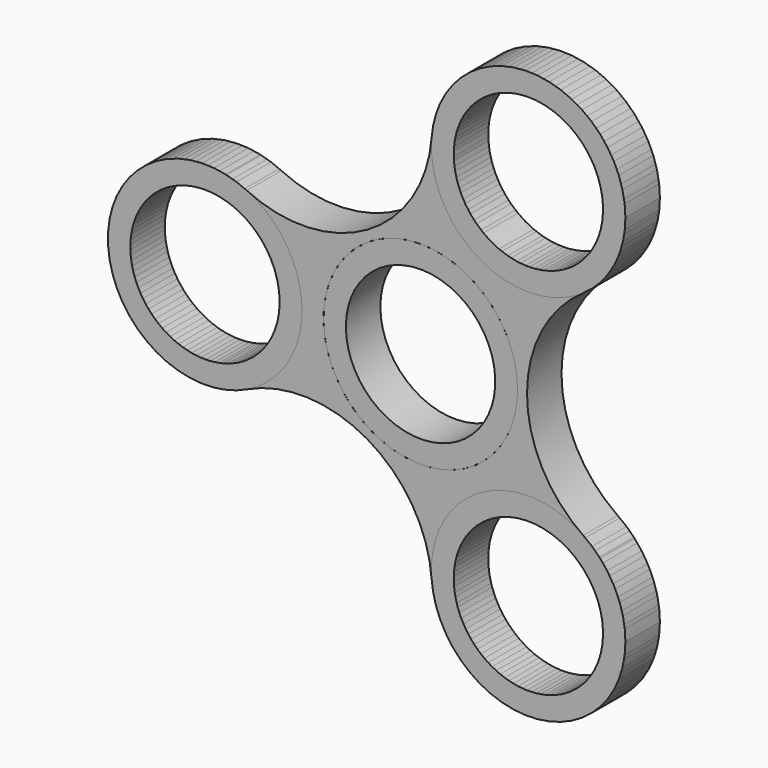
from build123d import *

# Parameters (mm, degrees)
F1_R     = 10.9982
F1_R_2   = 14.2875
F2_DEPTH = 6.35


with BuildPart() as f2:
    # F1 (on Front) → F2 (new body)
    with BuildSketch(Plane.XZ):
        with BuildLine():
            ThreePointArc((30.1625, 27.4963065702), (16.4276008155, 41.7731160383), (1.6302461293, 28.6006812411))
            ThreePointArc((1.6302461293, 28.6006812411), (8.73125, 15.1229686136), (23.9537934556, 15.7121751829))
            ThreePointArc((23.9537934556, 15.7121751829), (28.5153800921, 20.8364681805), (30.1625, 27.4963065702))
        make_face()
        with Locations((15.875, 27.4963065702)):
            Circle(F1_R, mode=Mode.SUBTRACT)
        with BuildLine():
            ThreePointArc((23.9537934556, -15.7121751829), (8.73125, -15.1229686136), (1.6302461293, -28.6006812411))
            ThreePointArc((1.6302461293, -28.6006812411), (16.4276008155, -41.7731160383), (30.1625, -27.4963065702))
            ThreePointArc((30.1625, -27.4963065702), (28.5153800921, -20.8364681805), (23.9537934556, -15.7121751829))
        make_face()
        with Locations((15.875, -27.4963065702)):
            Circle(F1_R, mode=Mode.SUBTRACT)
        with BuildLine():
            ThreePointArc((-17.4625, 0), (-19.6622207234, 7.6169710785), (-25.584039585, 12.8885060581))
            ThreePointArc((-25.584039585, 12.8885060581), (-46.0375, 0), (-25.584039585, -12.8885060581))
            ThreePointArc((-25.584039585, -12.8885060581), (-19.6622207234, -7.6169710785), (-17.4625, 0))
        make_face()
        with Locations((-31.75, 0)):
            Circle(F1_R, mode=Mode.SUBTRACT)
        with BuildLine():
            ThreePointArc((1.6302461293, 28.6006812411), (-7.8377590316, 13.5753968602), (-25.584039585, 12.8885060581))
            ThreePointArc((-25.584039585, 12.8885060581), (-19.6622207234, 7.6169710785), (-17.4625, 0))
            ThreePointArc((-17.4625, 0), (-19.6622207234, -7.6169710785), (-25.584039585, -12.8885060581))
            ThreePointArc((-25.584039585, -12.8885060581), (-7.8377590316, -13.5753968602), (1.6302461293, -28.6006812411))
            ThreePointArc((1.6302461293, -28.6006812411), (8.73125, -15.1229686136), (23.9537934556, -15.7121751829))
            ThreePointArc((23.9537934556, -15.7121751829), (15.6755180632, 0), (23.9537934556, 15.7121751829))
            ThreePointArc((23.9537934556, 15.7121751829), (8.73125, 15.1229686136), (1.6302461293, 28.6006812411))
        make_face()
        Circle(F1_R_2, mode=Mode.SUBTRACT)
    extrude(amount=F2_DEPTH)


with BuildPart() as f2b:
    # F0 (on Front) → F2, piece 2 (new body)
    with BuildSketch(Plane.XZ):
        with BuildLine():
            ThreePointArc((-25.43979926, 9.0078726601), (-24.8326351147, 10.5671845593), (-24.13, 12.0858701073))
            ThreePointArc((-24.13, 12.0858701073), (-26.2554866329, 13.1887444099), (-28.5353125, 13.9211508334))
            ThreePointArc((-28.5353125, 13.9211508334), (-29.2310490293, 12.3938804515), (-29.84511176, 10.8319806145))
            ThreePointArc((-29.84511176, 10.8319806145), (-27.5424158719, 10.1615273973), (-25.43979926, 9.0078726601))
        make_face()
        with BuildLine():
            ThreePointArc((-29.84511176, 10.8319806145), (-29.2310490293, 12.3938804515), (-28.5353125, 13.9211508334))
            ThreePointArc((-28.5353125, 13.9211508334), (-46.0375, 0), (-28.5353125, -13.9211508334))
            ThreePointArc((-28.5353125, -13.9211508334), (-29.2310490293, -12.3938804515), (-29.84511176, -10.8319806145))
            ThreePointArc((-29.84511176, -10.8319806145), (-42.7482, 0), (-29.84511176, 10.8319806145))
        make_face()
        with BuildLine():
            ThreePointArc((-29.84511176, -10.8319806145), (-29.2310490293, -12.3938804515), (-28.5353125, -13.9211508334))
            ThreePointArc((-28.5353125, -13.9211508334), (-26.2554866329, -13.1887444099), (-24.13, -12.0858701073))
            ThreePointArc((-24.13, -12.0858701073), (-24.8326351147, -10.5671845593), (-25.43979926, -9.0078726601))
            ThreePointArc((-25.43979926, -9.0078726601), (-27.5424158719, -10.1615273973), (-29.84511176, -10.8319806145))
        make_face()
        with BuildLine():
            ThreePointArc((-17.4625, 0), (-19.2399359264, 6.9015181754), (-24.13, 12.0858701073))
            ThreePointArc((-24.13, 12.0858701073), (-24.8326351147, 10.5671845593), (-25.43979926, 9.0078726601))
            ThreePointArc((-25.43979926, 9.0078726601), (-21.993944111, 5.0773789233), (-20.7518, 0))
            ThreePointArc((-20.7518, 0), (-21.993944111, -5.0773789233), (-25.43979926, -9.0078726601))
            ThreePointArc((-25.43979926, -9.0078726601), (-24.8326351147, -10.5671845593), (-24.13, -12.0858701073))
            ThreePointArc((-24.13, -12.0858701073), (-19.2399359264, -6.9015181754), (-17.4625, 0))
        make_face()
    extrude(amount=F2_DEPTH)


with BuildPart() as f2c:
    # F0 (on Front) → F2, piece 3 (new body)
    with BuildSketch(Plane.XZ):
        with BuildLine():
            ThreePointArc((7.14375, 12.3733379566), (-12.3733379566, -7.14375), (14.2875, 0))
            ThreePointArc((14.2875, 0), (12.3733379566, 7.14375), (7.14375, 12.3733379566))
        make_face()
        with BuildLine():
            ThreePointArc((10.9982, 0), (-9.5247205959, -5.4991), (5.4991, 9.5247205959))
            ThreePointArc((5.4991, 9.5247205959), (9.5247205959, 5.4991), (10.9982, 0))
        make_face(mode=Mode.SUBTRACT)
    extrude(amount=F2_DEPTH)


with BuildPart() as f2d:
    # F0 (on Front) → F2, piece 4 (new body)
    with BuildSketch(Plane.XZ):
        with BuildLine():
            ThreePointArc((2.2115859783, 31.6728809466), (1.7059556135, 29.3322906177), (1.5983294603, 26.940128047))
            ThreePointArc((1.5983294603, 26.940128047), (3.2648672826, 26.7892851319), (4.9188530723, 26.5354487564))
            ThreePointArc((4.9188530723, 26.5354487564), (4.9710670687, 28.9331955253), (5.5417854945, 31.2626152702))
            ThreePointArc((5.5417854945, 31.2626152702), (3.8821091922, 31.5117712644), (2.2115859783, 31.6728809466))
        make_face()
        with BuildLine():
            ThreePointArc((1.5983294603, 26.940128047), (3.6430778987, 20.1130323672), (8.73125, 15.1229686136))
            Line((8.73125, 15.1229686136), (10.3759, 17.9715859743))
            ThreePointArc((10.3759, 17.9715859743), (6.5998329233, 21.5860037912), (4.9188530723, 26.5354487564))
            ThreePointArc((4.9188530723, 26.5354487564), (3.2648672826, 26.7892851319), (1.5983294603, 26.940128047))
        make_face()
        with BuildLine():
            Line((10.3759, 17.9715859743), (8.73125, 15.1229686136))
            ThreePointArc((8.73125, 15.1229686136), (15.5968580278, 13.2115141918), (22.5316705397, 14.8542579397))
            ThreePointArc((22.5316705397, 14.8542579397), (21.5677678322, 16.2221005726), (20.5209461877, 17.5275760963))
            ThreePointArc((20.5209461877, 17.5275760963), (15.3941111877, 16.5086248679), (10.3759, 17.9715859743))
        make_face()
        with BuildLine():
            ThreePointArc((20.5209461877, 17.5275760963), (21.5677678322, 16.2221005726), (22.5316705397, 14.8542579397))
            ThreePointArc((22.5316705397, 14.8542579397), (24.5495310194, 16.1435462079), (26.3237265217, 17.7517301132))
            ThreePointArc((26.3237265217, 17.7517301132), (25.3489398371, 19.1178908129), (24.3033262655, 20.4306346557))
            ThreePointArc((24.3033262655, 20.4306346557), (22.5713488033, 18.7716681281), (20.5209461877, 17.5275760963))
        make_face()
        with BuildLine():
            ThreePointArc((30.1625, 27.4963065702), (17.9864720476, 41.6269237556), (2.2115859783, 31.6728809466))
            ThreePointArc((2.2115859783, 31.6728809466), (3.8821091922, 31.5117712644), (5.5417854945, 31.2626152702))
            ThreePointArc((5.5417854945, 31.2626152702), (17.7872818132, 38.3269843655), (26.8732, 27.4963065702))
            ThreePointArc((26.8732, 27.4963065702), (26.2107830176, 23.7370523019), (24.3033262655, 20.4306346557))
            ThreePointArc((24.3033262655, 20.4306346557), (25.3489398371, 19.1178908129), (26.3237265217, 17.7517301132))
            ThreePointArc((26.3237265217, 17.7517301132), (29.1682094776, 22.25958641), (30.1625, 27.4963065702))
        make_face()
    extrude(amount=F2_DEPTH)


with BuildPart() as f2e:
    # F0 (on Front) → F2, piece 5 (new body)
    with BuildSketch(Plane.XZ):
        with BuildLine():
            ThreePointArc((26.3237265217, -17.7517301132), (24.5495310194, -16.1435462079), (22.5316705397, -14.8542579397))
            ThreePointArc((22.5316705397, -14.8542579397), (21.5677678322, -16.2221005726), (20.5209461877, -17.5275760963))
            ThreePointArc((20.5209461877, -17.5275760963), (22.5713488033, -18.7716681281), (24.3033262655, -20.4306346557))
            ThreePointArc((24.3033262655, -20.4306346557), (25.3489398371, -19.1178908129), (26.3237265217, -17.7517301132))
        make_face()
        with BuildLine():
            ThreePointArc((20.5209461877, -17.5275760963), (21.5677678322, -16.2221005726), (22.5316705397, -14.8542579397))
            ThreePointArc((22.5316705397, -14.8542579397), (8.73125, -15.1229686136), (1.5983294603, -26.940128047))
            ThreePointArc((1.5983294603, -26.940128047), (3.2648672826, -26.7892851319), (4.9188530723, -26.5354487564))
            ThreePointArc((4.9188530723, -26.5354487564), (10.3759, -17.9715859743), (20.5209461877, -17.5275760963))
        make_face()
        with BuildLine():
            ThreePointArc((4.9188530723, -26.5354487564), (3.2648672826, -26.7892851319), (1.5983294603, -26.940128047))
            ThreePointArc((1.5983294603, -26.940128047), (1.7059556135, -29.3322906177), (2.2115859783, -31.6728809466))
            ThreePointArc((2.2115859783, -31.6728809466), (3.8821091922, -31.5117712644), (5.5417854945, -31.2626152702))
            ThreePointArc((5.5417854945, -31.2626152702), (4.9710670687, -28.9331955253), (4.9188530723, -26.5354487564))
        make_face()
        with BuildLine():
            ThreePointArc((30.1625, -27.4963065702), (29.1682094776, -22.25958641), (26.3237265217, -17.7517301132))
            ThreePointArc((26.3237265217, -17.7517301132), (25.3489398371, -19.1178908129), (24.3033262655, -20.4306346557))
            ThreePointArc((24.3033262655, -20.4306346557), (26.2107830176, -23.7370523019), (26.8732, -27.4963065702))
            ThreePointArc((26.8732, -27.4963065702), (17.7872818132, -38.3269843655), (5.5417854945, -31.2626152702))
            ThreePointArc((5.5417854945, -31.2626152702), (3.8821091922, -31.5117712644), (2.2115859783, -31.6728809466))
            ThreePointArc((2.2115859783, -31.6728809466), (17.9864720476, -41.6269237556), (30.1625, -27.4963065702))
        make_face()
    extrude(amount=F2_DEPTH)


solid = Compound([f2.part, f2b.part, f2c.part, f2d.part, f2e.part])
